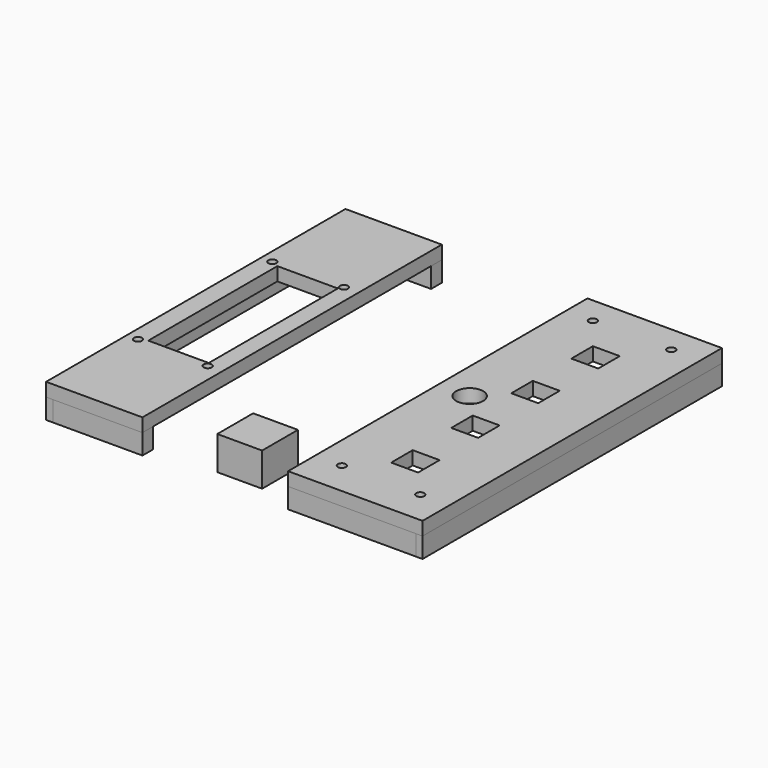
from build123d import *

# Parameters (mm, degrees)
BOX001_W          = 43
BOX001_H          = 6
BOX001_DEPTH      = 9
BOX002_W          = 43
BOX002_H          = 6
BOX002_DEPTH      = 9
BOX003_W          = 167
BOX003_H          = 3
BOX003_DEPTH      = 9
BOX009_W          = 60
BOX009_H          = 6
BOX009_DEPTH      = 9
BOX010_W          = 60
BOX010_H          = 6
BOX010_DEPTH      = 9
BOX011_W          = 167
BOX011_H          = 3
BOX011_DEPTH      = 9
TUBE008_R         = 1.8
TUBE008_DEPTH     = 21
TUBE007_R         = 1.8
TUBE007_DEPTH     = 20
TUBE006_R         = 1.8
TUBE006_DEPTH     = 20
TUBE005_R         = 1.8
TUBE005_DEPTH     = 20
BOX004_W          = 27
BOX004_H          = 72
BOX004_DEPTH      = 18
BOX007_W          = 43
BOX007_H          = 167
BOX007_DEPTH      = 6
TUBE010_R         = 1.8
TUBE010_DEPTH     = 20
TUBE011_R         = 1.8
TUBE011_DEPTH     = 20
TUBE012_R         = 1.8
TUBE012_DEPTH     = 20
BOX014_W          = 12
BOX014_H          = 12
BOX014_DEPTH      = 10
BOX012_W          = 12
BOX012_H          = 12
BOX012_DEPTH      = 10
BOX013_W          = 12
BOX013_H          = 12
BOX013_DEPTH      = 10
BOX015_W          = 12
BOX015_H          = 12
BOX015_DEPTH      = 10
CYLINDER005_R     = 6
CYLINDER005_DEPTH = 10
TUBE009_R         = 1.8
TUBE009_DEPTH     = 20
BOX008_W          = 60
BOX008_H          = 167
BOX008_DEPTH      = 6
BOX_W             = 20
BOX_H             = 20
BOX_DEPTH         = 15


with BuildPart() as side1:
    # Box001 → Box001 (new body)
    with BuildSketch(Plane(origin=(5, 0, -9), x_dir=(1, 0, 0), z_dir=(0, 0, 1))):
        with Locations((21.5, 3)):
            Rectangle(BOX001_W, BOX001_H)
    extrude(amount=BOX001_DEPTH)


with BuildPart() as side2:
    # Box002 → Box002 (new body)
    with BuildSketch(Plane(origin=(5, 161, -9), x_dir=(1, 0, 0), z_dir=(0, 0, 1))):
        with Locations((21.5, 3)):
            Rectangle(BOX002_W, BOX002_H)
    extrude(amount=BOX002_DEPTH)


with BuildPart() as side3:
    # Box003 → Box003 (new body)
    with BuildSketch(Plane(origin=(8, 0, -9), x_dir=(0, 1, 0), z_dir=(0, 0, 1))):
        with Locations((83.5, 1.5)):
            Rectangle(BOX003_W, BOX003_H)
    extrude(amount=BOX003_DEPTH)


with BuildPart() as side4:
    # Box009 → Box009 (new body)
    with BuildSketch(Plane(origin=(113, 0, -9), x_dir=(1, 0, 0), z_dir=(0, 0, 1))):
        with Locations((30, 3)):
            Rectangle(BOX009_W, BOX009_H)
    extrude(amount=BOX009_DEPTH)


with BuildPart() as side5:
    # Box010 → Box010 (new body)
    with BuildSketch(Plane(origin=(113, 161, -9), x_dir=(1, 0, 0), z_dir=(0, 0, 1))):
        with Locations((30, 3)):
            Rectangle(BOX010_W, BOX010_H)
    extrude(amount=BOX010_DEPTH)


with BuildPart() as side6:
    # Box011 → Box011 (new body)
    with BuildSketch(Plane(origin=(173, 0, -9), x_dir=(0, 1, 0), z_dir=(0, 0, 1))):
        with Locations((83.5, 1.5)):
            Rectangle(BOX011_W, BOX011_H)
    extrude(amount=BOX011_DEPTH)


with BuildPart() as screw4:
    # Tube008 → Tube008 (new body)
    with BuildSketch(Plane(origin=(41.5, 44.5, -13), x_dir=(1, 0, 0), z_dir=(0, 0, 1))):
        Circle(TUBE008_R)
    extrude(amount=TUBE008_DEPTH)


with BuildPart() as screw3:
    # Tube007 → Tube007 (new body)
    with BuildSketch(Plane(origin=(41.5, 120.5, -10), x_dir=(1, 0, 0), z_dir=(0, 0, 1))):
        Circle(TUBE007_R)
    extrude(amount=TUBE007_DEPTH)


with BuildPart() as screw2:
    # Tube006 → Tube006 (new body)
    with BuildSketch(Plane(origin=(10, 120, -10), x_dir=(1, 0, 0), z_dir=(0, 0, 1))):
        Circle(TUBE006_R)
    extrude(amount=TUBE006_DEPTH)


with BuildPart() as screw1:
    # Tube005 → Tube005 (new body)
    with BuildSketch(Plane(origin=(10, 45, -10), x_dir=(1, 0, 0), z_dir=(0, 0, 1))):
        Circle(TUBE005_R)
    extrude(amount=TUBE005_DEPTH)


with BuildPart() as lcd:
    # Box004 → Box004 (new body)
    with BuildSketch(Plane(origin=(13.4, 46.5, -10), x_dir=(1, 0, 0), z_dir=(0, 0, 1))):
        with Locations((13.5, 36)):
            Rectangle(BOX004_W, BOX004_H)
    extrude(amount=BOX004_DEPTH)


with BuildPart() as cut004:
    # Box007 → Box007 (new body)
    with BuildSketch(Plane(origin=(5, 0, 0), x_dir=(1, 0, 0), z_dir=(0, 0, 1))):
        with Locations((21.5, 83.5)):
            Rectangle(BOX007_W, BOX007_H)
    extrude(amount=BOX007_DEPTH)

    # Cut: cut LCD
    add(lcd.part, mode=Mode.SUBTRACT)

    # Cut001: cut screw1
    add(screw1.part, mode=Mode.SUBTRACT)

    # Cut002: cut screw2
    add(screw2.part, mode=Mode.SUBTRACT)

    # Cut003: cut screw3
    add(screw3.part, mode=Mode.SUBTRACT)

    # Cut004: cut screw4
    add(screw4.part, mode=Mode.SUBTRACT)


with BuildPart() as screw6:
    # Tube010 → Tube010 (new body)
    with BuildSketch(Plane(origin=(160, 15, -10), x_dir=(1, 0, 0), z_dir=(0, 0, 1))):
        Circle(TUBE010_R)
    extrude(amount=TUBE010_DEPTH)


with BuildPart() as screw7:
    # Tube011 → Tube011 (new body)
    with BuildSketch(Plane(origin=(160, 155, -10), x_dir=(1, 0, 0), z_dir=(0, 0, 1))):
        Circle(TUBE011_R)
    extrude(amount=TUBE011_DEPTH)


with BuildPart() as screw8:
    # Tube012 → Tube012 (new body)
    with BuildSketch(Plane(origin=(125, 155, -10), x_dir=(1, 0, 0), z_dir=(0, 0, 1))):
        Circle(TUBE012_R)
    extrude(amount=TUBE012_DEPTH)


with BuildPart() as button3:
    # Box014 → Box014 (new body)
    with BuildSketch(Plane(origin=(137, 94.5, -2), x_dir=(1, 0, 0), z_dir=(0, 0, 1))):
        with Locations((6, 6)):
            Rectangle(BOX014_W, BOX014_H)
    extrude(amount=BOX014_DEPTH)


with BuildPart() as button1:
    # Box012 → Box012 (new body)
    with BuildSketch(Plane(origin=(137, 27.5, -2), x_dir=(1, 0, 0), z_dir=(0, 0, 1))):
        with Locations((6, 6)):
            Rectangle(BOX012_W, BOX012_H)
    extrude(amount=BOX012_DEPTH)


with BuildPart() as button4:
    # Box013 → Box013 (new body)
    with BuildSketch(Plane(origin=(137, 128, -2), x_dir=(1, 0, 0), z_dir=(0, 0, 1))):
        with Locations((6, 6)):
            Rectangle(BOX013_W, BOX013_H)
    extrude(amount=BOX013_DEPTH)


with BuildPart() as button2:
    # Box015 → Box015 (new body)
    with BuildSketch(Plane(origin=(137, 61, -2), x_dir=(1, 0, 0), z_dir=(0, 0, 1))):
        with Locations((6, 6)):
            Rectangle(BOX015_W, BOX015_H)
    extrude(amount=BOX015_DEPTH)


with BuildPart() as buzzer:
    # Cylinder005 → Cylinder005 (new body)
    with BuildSketch(Plane(origin=(127, 83.8, -2), x_dir=(1, 0, 0), z_dir=(0, 0, 1))):
        Circle(CYLINDER005_R)
    extrude(amount=CYLINDER005_DEPTH)


with BuildPart() as screw5:
    # Tube009 → Tube009 (new body)
    with BuildSketch(Plane(origin=(125, 15, -10), x_dir=(1, 0, 0), z_dir=(0, 0, 1))):
        Circle(TUBE009_R)
    extrude(amount=TUBE009_DEPTH)


with BuildPart() as cut013:
    # Box008 → Box008 (new body)
    with BuildSketch(Plane(origin=(113, 0, 0), x_dir=(1, 0, 0), z_dir=(0, 0, 1))):
        with Locations((30, 83.5)):
            Rectangle(BOX008_W, BOX008_H)
    extrude(amount=BOX008_DEPTH)

    # Cut005: cut screw5
    add(screw5.part, mode=Mode.SUBTRACT)

    # Cut006: cut Buzzer
    add(buzzer.part, mode=Mode.SUBTRACT)

    # Cut007: cut Button2
    add(button2.part, mode=Mode.SUBTRACT)

    # Cut008: cut Button4
    add(button4.part, mode=Mode.SUBTRACT)

    # Cut009: cut Button1
    add(button1.part, mode=Mode.SUBTRACT)

    # Cut010: cut Button3
    add(button3.part, mode=Mode.SUBTRACT)

    # Cut011: cut screw8
    add(screw8.part, mode=Mode.SUBTRACT)

    # Cut012: cut screw7
    add(screw7.part, mode=Mode.SUBTRACT)

    # Cut013: cut screw6
    add(screw6.part, mode=Mode.SUBTRACT)


with BuildPart() as ledmatrix_supports:
    # Box → Box (new body)
    with BuildSketch(Plane(origin=(75, 8, -10), x_dir=(1, 0, 0), z_dir=(0, 0, 1))):
        with Locations((10, 10)):
            Rectangle(BOX_W, BOX_H)
    extrude(amount=BOX_DEPTH)


solid = Compound([side1.part, side2.part, side3.part, side4.part, side5.part, side6.part, cut004.part, cut013.part, ledmatrix_supports.part])
